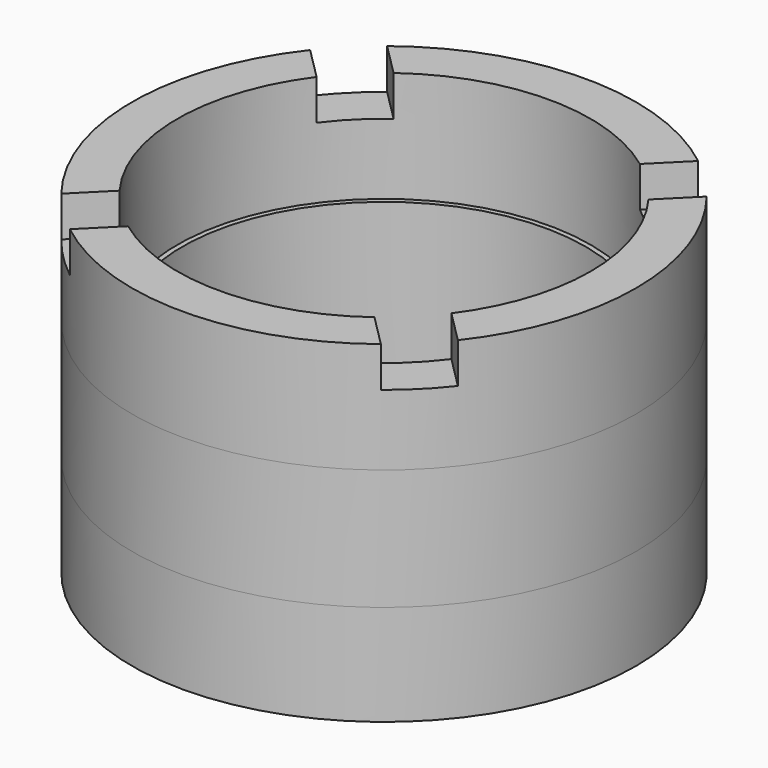
from build123d import *

# Parameters (mm, degrees)
F0_R      = 27
F0_R_2    = 18
F1_DEPTH  = 22
F2_R      = 20
F3_DEPTH  = 17
F4_SIZE   = 4
F5_R      = 27
F5_R_2    = 25
F6_DEPTH  = 12
F7_R      = 25
F7_R_2    = 20.5
F8_DEPTH  = 11
F10_DEPTH = 4
F11_R     = 27
F11_R_2   = 25
F12_DEPTH = 10.001


with BuildPart() as f1:
    # F0 (on Top) → F1 (new body)
    with BuildSketch(Plane.XY):
        Circle(F0_R)
        Circle(F0_R_2, mode=Mode.SUBTRACT)
    extrude(amount=-F1_DEPTH)

    # F2 (on face) → F3 (cut)
    with BuildSketch(Plane.XY):
        Circle(F2_R)
    extrude(amount=-F3_DEPTH, mode=Mode.SUBTRACT)

    # F4
    f4_edges = [f1.edges().sort_by_distance(p)[0] for p in [
        (-18, 0, -22),
    ]]
    chamfer(f4_edges, length=F4_SIZE)

    # F5 (on Top) → F6 (cut)
    with BuildSketch(Plane.XY):
        Circle(F5_R)
        Circle(F5_R_2, mode=Mode.SUBTRACT)
    extrude(amount=-F6_DEPTH, mode=Mode.SUBTRACT)

    # F7 (on face) → F8 (join)
    with BuildSketch(Plane.XY):
        Circle(F7_R)
        Circle(F7_R_2, mode=Mode.SUBTRACT)
    extrude(amount=F8_DEPTH)

    # F9 (on face) → F10 (cut)
    with BuildSketch(Plane.XY.offset(11)):
        Polygon((-28.467241, 32.709882), (-32.709882, 28.467241), (-4.242641, 0), (0, 4.242641), align=None)
        Polygon((0, -4.242641), (-4.242641, 0), (-34.573084, -30.330443), (-30.330443, -34.573084), align=None)
        Polygon((4.242641, 0), (0, -4.242641), (30.929728, -35.172369), (35.172369, -30.929728), align=None)
        Polygon((29.066526, 33.309167), (0, 4.242641), (4.242641, 0), (33.309167, 29.066526), align=None)
    extrude(amount=-F10_DEPTH, mode=Mode.SUBTRACT)

    # F11 (on face) → F12 (cut, through all)
    with BuildSketch(Plane.XY.offset(-12)):
        Circle(F11_R)
        Circle(F11_R_2, mode=Mode.SUBTRACT)
    extrude(amount=-F12_DEPTH, mode=Mode.SUBTRACT)


solid = f1.part
